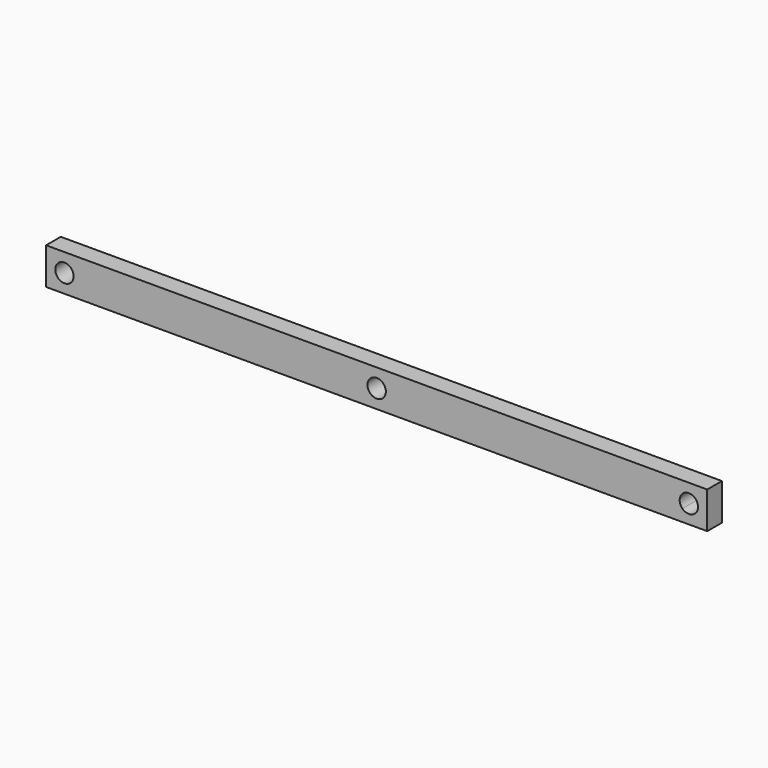
from build123d import *

# Parameters (mm, degrees)
F0_R     = 12.5
F1_DEPTH = 25


with BuildPart() as f1:
    # F0 (on Front) → F1 (new body)
    with BuildSketch(Plane.XZ):
        with BuildLine():
            Line((-16.161165, -16.161165), (0, 0))
            Line((0, 0), (-900, 0))
            Line((-900, 0), (-883.838835, -16.161165))
            ThreePointArc((-883.838835, -16.161165), (-870.216457, -13.451506), (-862.5, -25))
            ThreePointArc((-862.5, -25), (-863.451506, -29.783543), (-866.161165, -33.838835))
            Line((-866.161165, -33.838835), (-850, -50))
            Line((-850, -50), (-50, -50))
            Line((-50, -50), (-33.838835, -33.838835))
            ThreePointArc((-33.838835, -33.838835), (-33.838835, -16.161165), (-16.161165, -16.161165))
        make_face()
        with Locations((-450, -25)):
            Circle(F0_R, mode=Mode.SUBTRACT)
        with BuildLine():
            Line((0, -50), (0, 0))
            Line((0, 0), (-16.161165, -16.161165))
            ThreePointArc((-16.161165, -16.161165), (-13.451506, -20.216457), (-12.5, -25))
            ThreePointArc((-12.5, -25), (-20.216457, -36.548494), (-33.838835, -33.838835))
            Line((-33.838835, -33.838835), (-50, -50))
            Line((-50, -50), (0, -50))
        make_face()
        with BuildLine():
            Line((-883.838835, -16.161165), (-900, 0))
            Line((-900, 0), (-900, -50))
            Line((-900, -50), (-850, -50))
            Line((-850, -50), (-866.161165, -33.838835))
            ThreePointArc((-866.161165, -33.838835), (-883.838835, -33.838835), (-883.838835, -16.161165))
        make_face()
    extrude(amount=F1_DEPTH)


solid = f1.part
